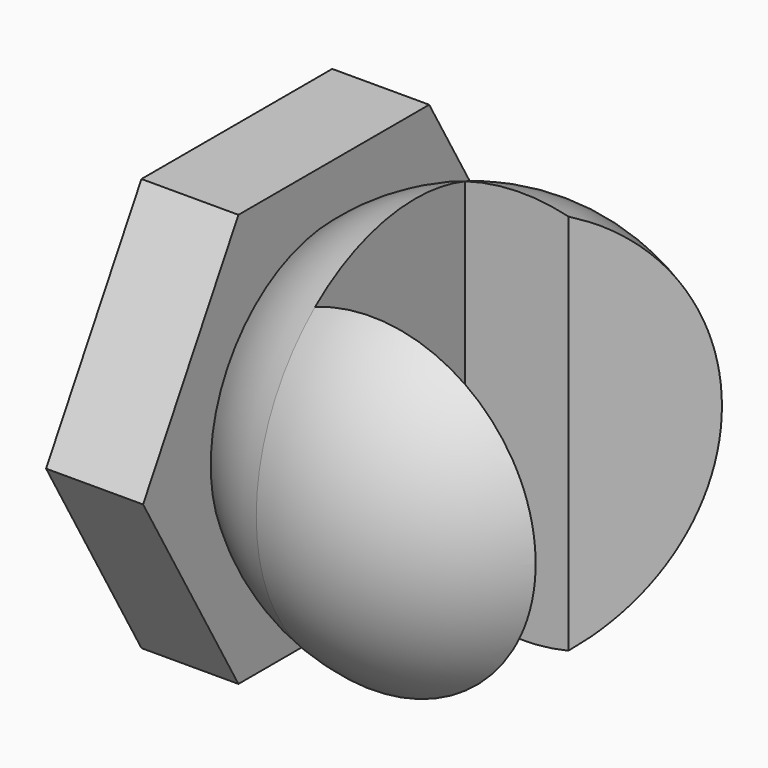
from build123d import *

# Parameters (mm, degrees)
F1_DEPTH = 31
F6_DEPTH = 138
F9_DEPTH = 188


with BuildPart() as f1:
    # F0 (on Right) → F1 (new body)
    with BuildSketch(Plane.YZ):
        Polygon((38.1051177665, 66), (-38.1051177665, 66), (-76.210235533, 0), (-38.1051177665, -66), (38.1051177665, -66), (76.210235533, 0), align=None)
    extrude(amount=F1_DEPTH)

    # F2 (on Front) → F3 (revolve)
    with BuildSketch(Plane.XZ):
        with BuildLine():
            Line((31, 0), (141, 0))
            ThreePointArc((141, 0), (114.7994974843, 52.6497863244), (57, 63.4980314656))
            ThreePointArc((57, 63.4980314656), (43.1856174465, 57.8259895094), (31, 49.193495505))
            Line((31, 49.193495505), (31, 0))
        make_face()
    revolve(axis=Axis((75, 0, 0), (-1, 0, 0)))

    # F5 (on offset) → F6 (cut)
    with BuildSketch(Plane(origin=(0, 0, -66), x_dir=(1, 0, 0), z_dir=(0, 0, -1))):
        with BuildLine():
            Line((57, -20), (137.8967407741, -20))
            ThreePointArc((137.8967407741, -20), (140.0304895149, 11.2709996651), (127.4976189936, 40))
            Line((127.4976189936, 40), (75, 40))
            Line((75, 40), (57, 40))
            Line((57, 40), (57, 0))
            Line((57, 0), (57, -20))
        make_face()
    extrude(amount=-F6_DEPTH, mode=Mode.SUBTRACT)

    # F8 (on offset) → F9 (cut)
    with BuildSketch(Plane(origin=(0, 0, -66), x_dir=(1, 0, 0), z_dir=(0, 0, -1))):
        with BuildLine():
            Line((90, -20), (110.5558559129, -55.6037868342))
            ThreePointArc((110.5558559129, -55.6037868342), (127.3463070124, -40.197812654), (137.8967407741, -20))
            Line((137.8967407741, -20), (90, -20))
        make_face()
    extrude(amount=-F9_DEPTH, mode=Mode.SUBTRACT)


solid = f1.part
